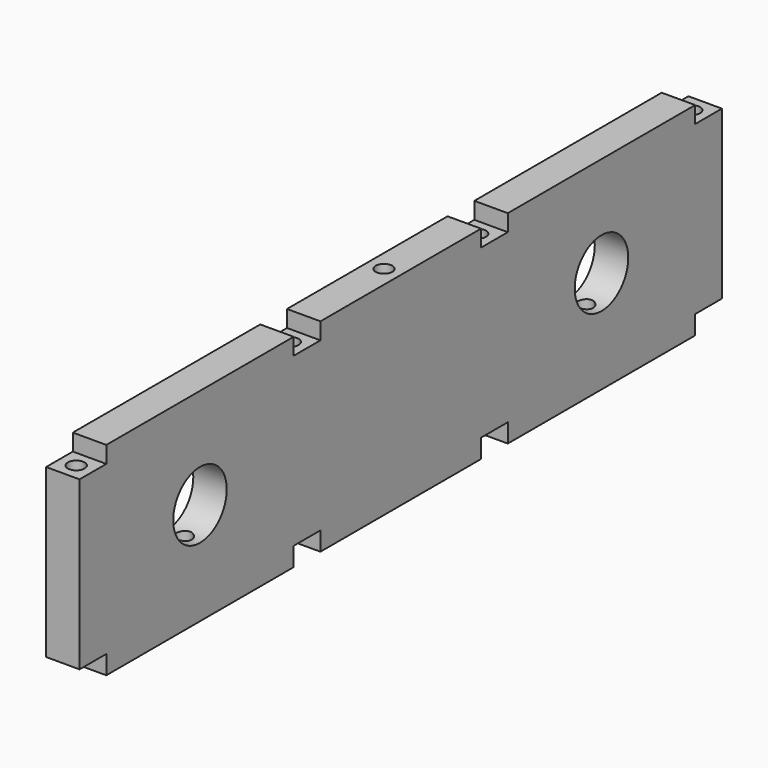
from build123d import *

# Parameters (mm, degrees)
F0_W      = 609.6
F0_H      = 153.9875
F1_DEPTH  = 25.4
F2_W      = 25.4
F2_H      = 12.7
F2_H_2    = 15.875
F3_DEPTH  = 25.4
F7_R      = 6.35
F6_R      = 6.35
F5_R      = 6.35
F4_R      = 6.35
F8_DEPTH  = 177.8
F9_DEPTH  = 1.5875
F12_R     = 6.35
F11_R     = 6.35
F10_R     = 6.35
F13_DEPTH = 177.8
F14_R     = 25.4
F15_DEPTH = 25.4
F16_DEPTH = 76.2
F17_DEPTH = 76.2
F18_DEPTH = 25.4
F19_DEPTH = 25.4


with BuildPart() as f1:
    # F0 (on Right) → F1 (new body)
    with BuildSketch(Plane.YZ):
        with Locations((-3.2007116824, -133.0477804439)):
            Rectangle(F0_W, F0_H)
    extrude(amount=F1_DEPTH)

    # F2 (on face) → F3 (cut)
    with BuildSketch(Plane.YZ.offset(25.4)):
        with Locations((-295.3007116824, -62.4040304439)):
            Rectangle(F2_W, F2_H)
        with Locations((-295.3007116824, -202.1040304439)):
            Rectangle(F2_W, F2_H_2)
        with Locations((-92.1007116824, -202.1040304439)):
            Rectangle(F2_W, F2_H_2)
        with Locations((-92.1007116824, -62.4040304439)):
            Rectangle(F2_W, F2_H)
        with Locations((85.6992883176, -62.4040304439)):
            Rectangle(F2_W, F2_H)
        with Locations((85.6992883176, -202.1040304439)):
            Rectangle(F2_W, F2_H_2)
        with Locations((288.8992883176, -62.4040304439)):
            Rectangle(F2_W, F2_H)
        with Locations((288.8992883176, -202.1040304439)):
            Rectangle(F2_W, F2_H_2)
    extrude(amount=-F3_DEPTH, mode=Mode.SUBTRACT)

    # F7 (on face) + F6 (on face) + F5 (on face) + F4 (on face) → F8 (cut)
    with BuildSketch(Plane.XY.offset(-68.7540304439)):
        with Locations((12.7, 288.8992883176)):
            Circle(F7_R)
    with BuildSketch(Plane.XY.offset(-68.7540304439)):
        with Locations((12.7, 85.6992883176)):
            Circle(F6_R)
    with BuildSketch(Plane.XY.offset(-68.7540304439)):
        with Locations((12.7, -92.1007116824)):
            Circle(F5_R)
    with BuildSketch(Plane.XY.offset(-68.7540304439)):
        with Locations((12.7, -295.3007116824)):
            Circle(F4_R)
    extrude(amount=-F8_DEPTH, mode=Mode.SUBTRACT)

    # F9 (add): faces of the model
    f9_faces = [f1.faces().sort_by_distance(p)[0] for p in [
        (12.7, -282.9599219273, -194.1665304439),
        (12.7, -79.7599219273, -194.1665304439),
        (12.7, 98.0400780727, -194.1665304439),
        (12.7, 301.2400780727, -194.1665304439),
    ]]
    extrude(f9_faces, amount=F9_DEPTH)

    # F12 (on face) + F11 (on face) + F10 (on face) → F13 (cut)
    with BuildSketch(Plane.XY.offset(-56.0540304439)):
        with Locations((12.7, -193.7007116824)):
            Circle(F12_R)
    with BuildSketch(Plane.XY.offset(-56.0540304439)):
        with Locations((12.7, -3.2007116824)):
            Circle(F11_R)
    with BuildSketch(Plane.XY.offset(-56.0540304439)):
        with Locations((12.7, 187.2992883176)):
            Circle(F10_R)
    extrude(amount=-F13_DEPTH, mode=Mode.SUBTRACT)

    # F14 (on face) → F15 (cut)
    with BuildSketch(Plane.YZ.offset(25.4)):
        with Locations((-193.7007116824, -132.2540304439)):
            Circle(F14_R)
        with Locations((187.2992883176, -132.2540304439)):
            Circle(F14_R)
    extrude(amount=-F15_DEPTH, mode=Mode.SUBTRACT)

    # F12 (on face) → F16 (join)
    with BuildSketch(Plane.XY.offset(-56.0540304439)):
        with Locations((12.7, -193.7007116824)):
            Circle(F12_R)
    extrude(amount=-F16_DEPTH)

    # F10 (on face) → F17 (join)
    with BuildSketch(Plane.XY.offset(-56.0540304439)):
        with Locations((12.7, 187.2992883176)):
            Circle(F10_R)
    extrude(amount=-F17_DEPTH)

    # F14 (on face) → F18 (cut)
    with BuildSketch(Plane.YZ.offset(25.4)):
        with Locations((187.2992883176, -132.2540304439)):
            Circle(F14_R)
    extrude(amount=-F18_DEPTH, mode=Mode.SUBTRACT)

    # F14 (on face) → F19 (cut)
    with BuildSketch(Plane.YZ.offset(25.4)):
        with Locations((-193.7007116824, -132.2540304439)):
            Circle(F14_R)
    extrude(amount=-F19_DEPTH, mode=Mode.SUBTRACT)


solid = f1.part
